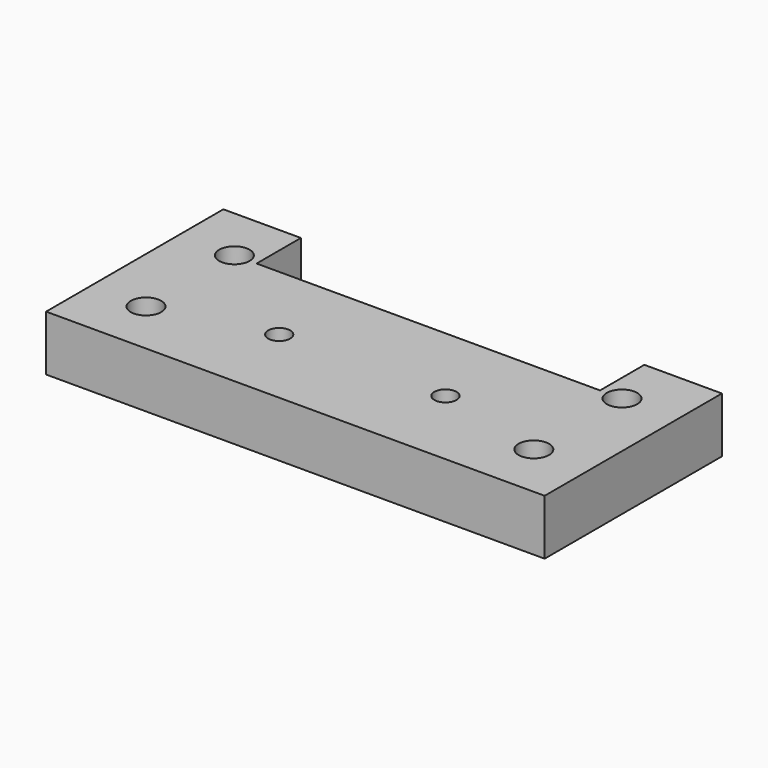
from build123d import *

# Parameters (mm, degrees)
F1_DEPTH    = 5
F2_R        = 2.75
F3_DEPTH    = 58.2
F4_R        = 2
F5_DEPTH    = 25
F1_FACE_R   = 2.75
F1_FACE_R_2 = 2
F6_DEPTH    = 5


with BuildPart() as f1:
    # F0 (on Top) → F1 (new body)
    with BuildSketch(Plane.XY):
        Polygon((31, 0), (0, 0), (-31, 0), (-31, 10), (-45, 10), (-45, -30), (45, -30), (45, 10), (31, 10), align=None)
    extrude(amount=F1_DEPTH)

    # F2 (on Top) → F3 (cut)
    with BuildSketch(Plane.XY):
        with Locations((-34.98394, -19.975932)):
            Circle(F2_R)
        with Locations((-35.002254, 0)):
            Circle(F2_R)
        with Locations((34.966677, 0)):
            Circle(F2_R)
        with Locations((34.966677, -19.899994)):
            Circle(F2_R)
    extrude(amount=F3_DEPTH, mode=Mode.SUBTRACT)

    # F4 (on face) → F5 (cut)
    with BuildSketch(Plane.XY.offset(5)):
        with Locations((-14.981076, -14.93126)):
            Circle(F4_R)
        with Locations((15.037959, -14.93126)):
            Circle(F4_R)
    extrude(amount=-F5_DEPTH, mode=Mode.SUBTRACT)

    # F1_face (on face) → F6 (join)
    with BuildSketch(Plane(origin=(0.000435, -13.224629, 5), x_dir=(1, 0, 0), z_dir=(0, 0, 1))):
        Polygon((30.999565, 13.224629), (-31.000435, 13.224629), (-31.000435, 23.224629), (-45.000435, 23.224629), (-45.000435, -16.775371), (44.999565, -16.775371), (44.999565, 23.224629), (30.999565, 23.224629), align=None)
        with Locations((-34.984376, -6.751303)):
            Circle(F1_FACE_R, mode=Mode.SUBTRACT)
        with Locations((-14.981511, -1.706631)):
            Circle(F1_FACE_R_2, mode=Mode.SUBTRACT)
        with Locations((34.966242, -6.675365)):
            Circle(F1_FACE_R, mode=Mode.SUBTRACT)
        with Locations((15.037524, -1.706631)):
            Circle(F1_FACE_R_2, mode=Mode.SUBTRACT)
        with Locations((-35.002689, 13.224629)):
            Circle(F1_FACE_R, mode=Mode.SUBTRACT)
        with Locations((34.966242, 13.224629)):
            Circle(F1_FACE_R, mode=Mode.SUBTRACT)
    extrude(amount=F6_DEPTH)


solid = f1.part
